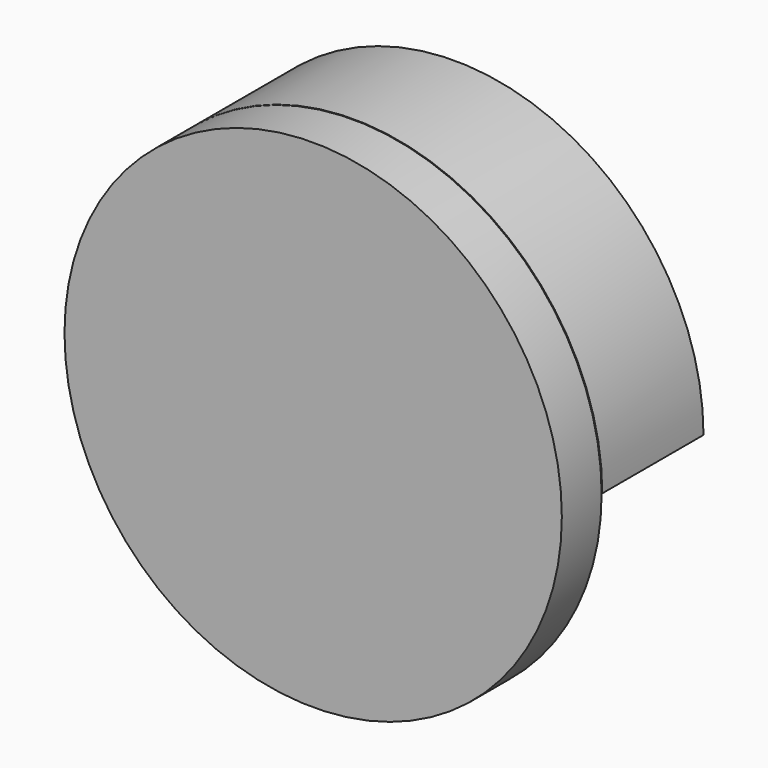
from build123d import *

# Parameters (mm, degrees)
REVOLUTION001_ANGLE = -180


with BuildPart() as body:
    # Sketch → Revolution (revolve)
    with BuildSketch(Plane.XY):
        with BuildLine():
            ThreePointArc((33, 0), (30.561046, 2.009722), (28, 3.86135))
            Line((28, 3.86135), (37, 3.86135))
            Line((37, 3.86135), (37, 1.86135))
            Line((37, 1.86135), (40, 1.86135))
            Line((40, 1.86135), (40, -6.13865))
            Line((40, -6.13865), (0, -6.13865))
            Line((0, -6.13865), (0, 6.754447))
            ThreePointArc((30, 0), (15.375488, 5.044961), (0, 6.754447))
            Line((30, 0), (33, 0))
        make_face()
    revolve(axis=Axis((0, 0, 0), (0, 1, 0)))


with BuildPart() as body001:
    # Sketch001 → Revolution001 (revolve)
    with BuildSketch(Plane.XY):
        with BuildLine():
            ThreePointArc((27.8, 3.995835), (15.956001, 9.822435), (3, 12.346639))
            Line((3, 12.346639), (3, 17.346639))
            Line((3, 17.346639), (9, 17.346639))
            Line((9, 17.346639), (9, 22.346639))
            Line((40, 22.346639), (9, 22.346639))
            Line((40, 1.995835), (40, 22.346639))
            Line((37.2, 1.995835), (40, 1.995835))
            Line((37.2, 3.995835), (37.2, 1.995835))
            Line((27.8, 3.995835), (37.2, 3.995835))
        make_face()
    revolve(axis=Axis((0, 0, 0), (0, 1, 0)), revolution_arc=REVOLUTION001_ANGLE)


with BuildPart() as body002:
    # Sketch002 → Revolution002 (revolve)
    with BuildSketch(Plane.XY):
        Polygon((0, 21), (8.8, 21), (8.8, 22.6), (18.8, 22.6), (18.8, 27.6), (0, 27.6), align=None)
    revolve(axis=Axis((0, 0, 0), (0, 1, 0)))


solid = Compound([body.part, body001.part, body002.part])
